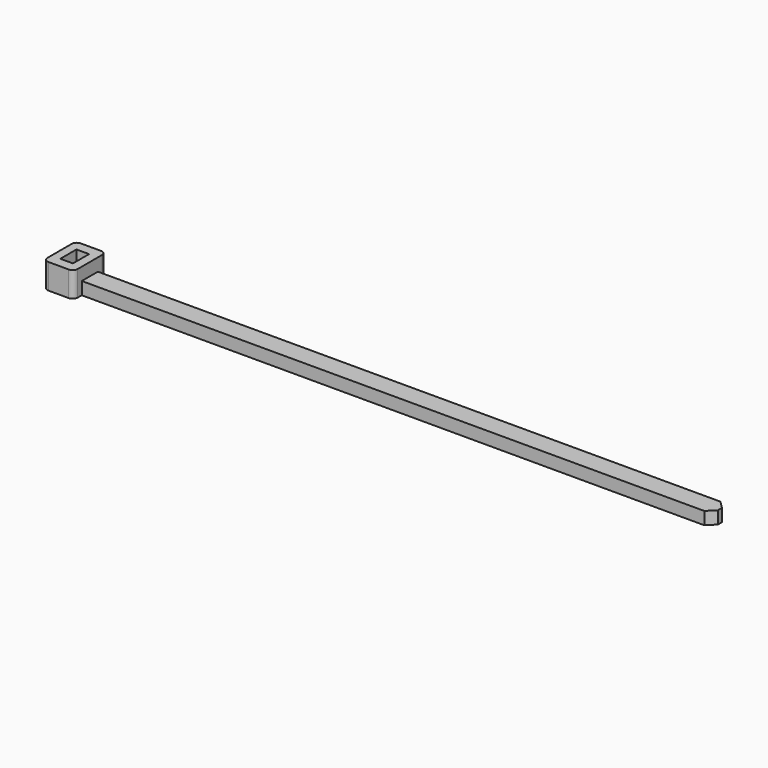
from build123d import *

# Parameters (mm, degrees)
F0_W     = 100
F0_H     = 3.2
F1_DEPTH = 2
F2_SIZE  = 1.2
F3_W     = 4.8
F3_H     = 6.4
F3_W_2   = 2
F3_H_2   = 3.2
F4_DEPTH = 4
F5_R     = 0.8


with BuildPart() as f1:
    # F0 (on Top) → F1 (new body)
    with BuildSketch(Plane.XY):
        Rectangle(F0_W, F0_H)
    extrude(amount=F1_DEPTH)

    # F2
    f2_edges = [f1.edges().sort_by_distance(p)[0] for p in [
        (50, 1.6, 1),
        (50, -1.6, 1),
    ]]
    chamfer(f2_edges, length=F2_SIZE)

    # F3 (on Top) → F4 (join)
    with BuildSketch(Plane.XY):
        with Locations((-52.4, 0)):
            Rectangle(F3_W, F3_H)
        with Locations((-52.4, 0)):
            Rectangle(F3_W_2, F3_H_2, mode=Mode.SUBTRACT)
    extrude(amount=F4_DEPTH)

    # F5
    f5_edges = [f1.edges().sort_by_distance(p)[0] for p in [
        (-54.8, 3.2, 2),
        (-50, 3.2, 2),
        (-50, -3.2, 2),
        (-54.8, -3.2, 2),
    ]]
    fillet(f5_edges, radius=F5_R)


solid = f1.part
